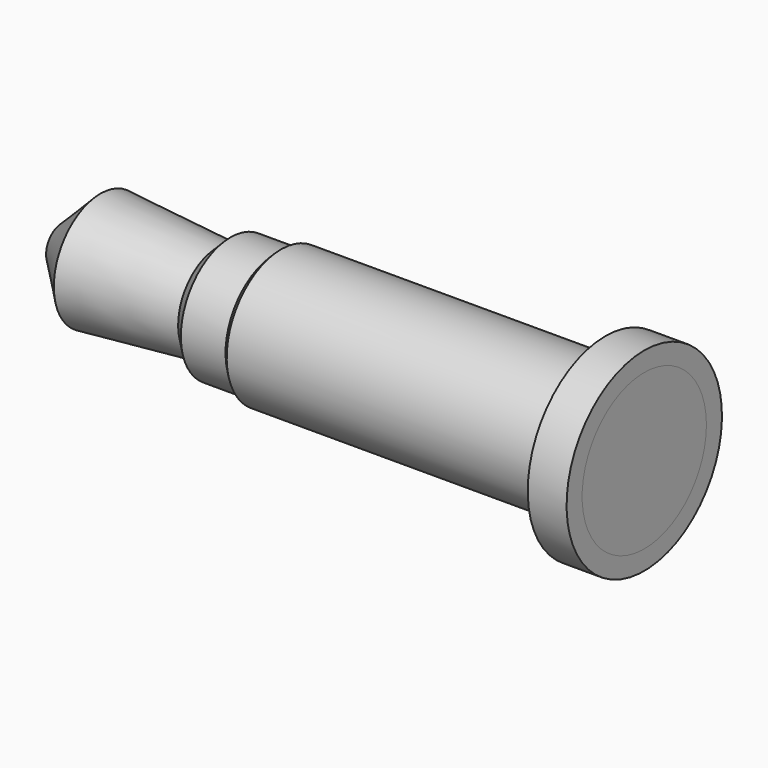
from build123d import *

# Parameters (mm, degrees)
F2_R     = 2
F3_DEPTH = 0.5
F4_R     = 2
F5_DEPTH = 0.5


with BuildPart() as f1:
    # F0 (on Front) → F1 (revolve)
    with BuildSketch(Plane.XZ):
        Polygon((0, 0.5), (0, 0), (15, 0), (15, 2.5), (14, 2.5), (14, 1.75), (5.65, 1.75), (5.5, 1.6), (4.35, 1.6), (4, 1.25), (1, 1.5), align=None)
    revolve(axis=Axis((7.5, 0, 0), (-1, 0, 0)))

    # F2 (on face) → F3 (cut)
    with BuildSketch(Plane.YZ.offset(15)):
        Circle(F2_R)
    extrude(amount=-F3_DEPTH, mode=Mode.SUBTRACT)


with BuildPart() as f5:
    # F4 (on face) → F5 (new body)
    with BuildSketch(Plane.YZ.offset(14.5)):
        Circle(F4_R)
    extrude(amount=F5_DEPTH)


solid = Compound([f1.part, f5.part])
